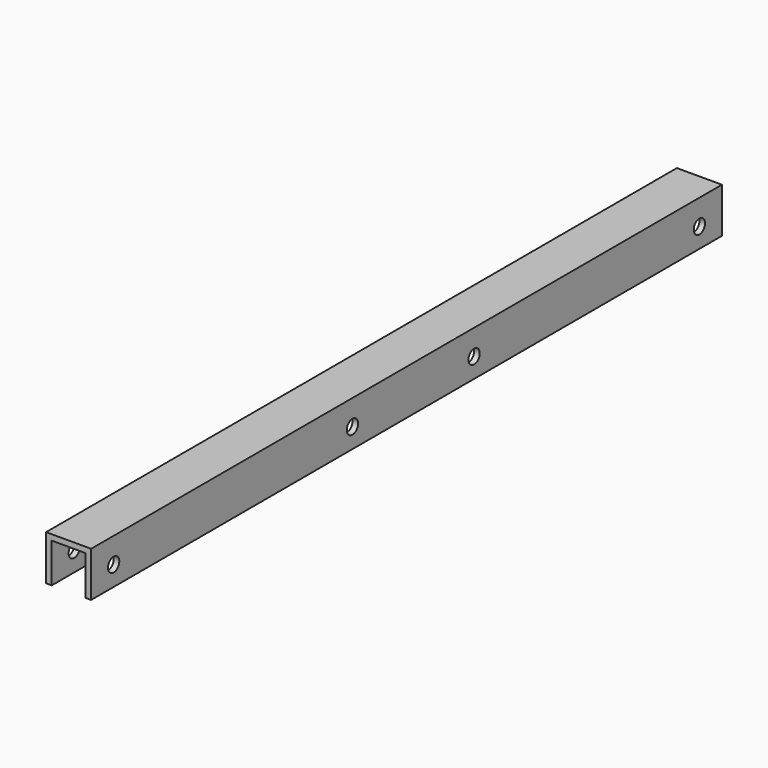
from build123d import *

# Parameters (mm, degrees)
PAD_DEPTH    = 140
SKETCH001_R  = 2.5
POCKET_DEPTH = 16.001


with BuildPart() as part:
    # Sketch → Pad (new body, symmetric)
    with BuildSketch(Plane.XZ):
        Polygon((0, 0), (0, 16), (16, 16), (16, 0), (14, 0), (14, 14), (2, 14), (2, 0), align=None)
    extrude(amount=PAD_DEPTH, both=True)

    # Sketch001 → Pocket (cut, through all)
    with BuildSketch(Plane(origin=(16, 0, 0), x_dir=(0, 0, 1), z_dir=(1, 0, 0))):
        with Locations((7, 130)):
            Circle(SKETCH001_R)
        with Locations((7, -130)):
            Circle(SKETCH001_R)
        with Locations((7, 24)):
            Circle(SKETCH001_R)
        with Locations((7, -30)):
            Circle(SKETCH001_R)
    extrude(amount=-POCKET_DEPTH, mode=Mode.SUBTRACT)


solid = part.part
